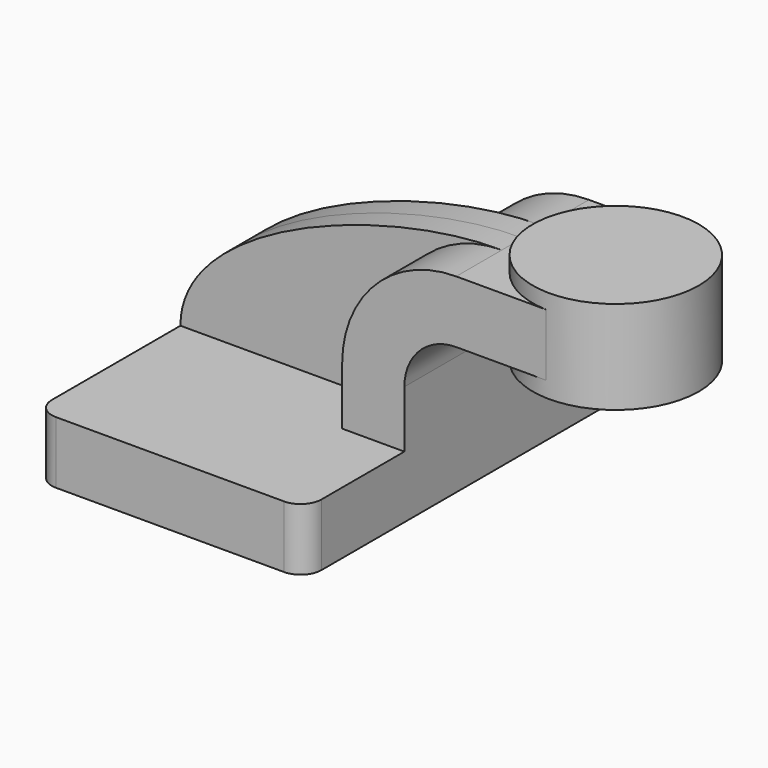
from build123d import *

# Parameters (mm, degrees)
F1_DEPTH = 63.5
F2_DEPTH = 7.9375
F0_W     = 25.3758770108
F0_H     = 19.05
F3_DEPTH = 25.4
F5_R     = 6.35


with BuildPart() as f1:
    # F0 (on Front) → F1 (new body, symmetric)
    with BuildSketch(Plane.XZ):
        Polygon((-41.275, 9.525), (-41.275, -9.525), (41.275, -9.525), (41.275, 9.525), (22.225, 9.525), align=None)
    extrude(amount=F1_DEPTH, both=True)

    # F0 (on Front) → F2 (join, symmetric)
    with BuildSketch(Plane.XZ):
        with BuildLine():
            add(Edge.make_bspline(
                [(-41.275, 9.525), (-41.3212813437, 39.7789143026), (21.7138361186, 62.3522996902), (57.15, 61.9252)],
                knots=[0, 0, 0, 0, 111.5045361635, 111.5045361635, 111.5045361635, 111.5045361635], degree=3))
            Line((-41.275, 9.525), (22.225, 9.525))
            Line((22.225, 9.525), (22.225, 27.0002))
            ThreePointArc((22.225, 27.0002), (32.4542956671, 51.6959043329), (57.15, 61.9252))
        make_face()
    extrude(amount=F2_DEPTH, both=True)

    # F0 (on Front) → F3 (join, symmetric)
    with BuildSketch(Plane.XZ):
        with Locations((73.0129385054, 52.4002)):
            Rectangle(F0_W, F0_H)
        with BuildLine():
            Line((22.225, 9.525), (41.275, 9.525))
            Line((41.275, 9.525), (41.275, 27.0002))
            ThreePointArc((41.275, 27.0002), (45.9246798487, 38.2255201513), (57.15, 42.8752))
            Line((57.15, 42.8752), (60.325, 42.8752))
            Line((60.325, 42.8752), (60.325, 61.9252))
            Line((60.325, 61.9252), (57.15, 61.9252))
            ThreePointArc((57.15, 61.9252), (32.4542956671, 51.6959043329), (22.225, 27.0002))
            Line((22.225, 27.0002), (22.225, 9.525))
        make_face()
    extrude(amount=F3_DEPTH, both=True)

    # F0 (on Front) → F4 (revolve)
    with BuildSketch(Plane.XZ):
        Polygon((85.7008770108, 66.675), (85.7008770108, 61.9252), (85.7008770108, 42.8752), (85.7008770108, 38.1), (111.125, 38.1), (111.125, 66.675), align=None)
    revolve(axis=Axis((85.7008770108, 0, 52.3875), (0, 0, -1)))

    # F5
    f5_edges = [f1.edges().sort_by_distance(p)[0] for p in [
        (41.275, -63.5, 0),
        (-41.275, -63.5, 0),
        (41.275, 63.5, 0),
        (-41.275, 63.5, 0),
    ]]
    fillet(f5_edges, radius=F5_R)


solid = f1.part
